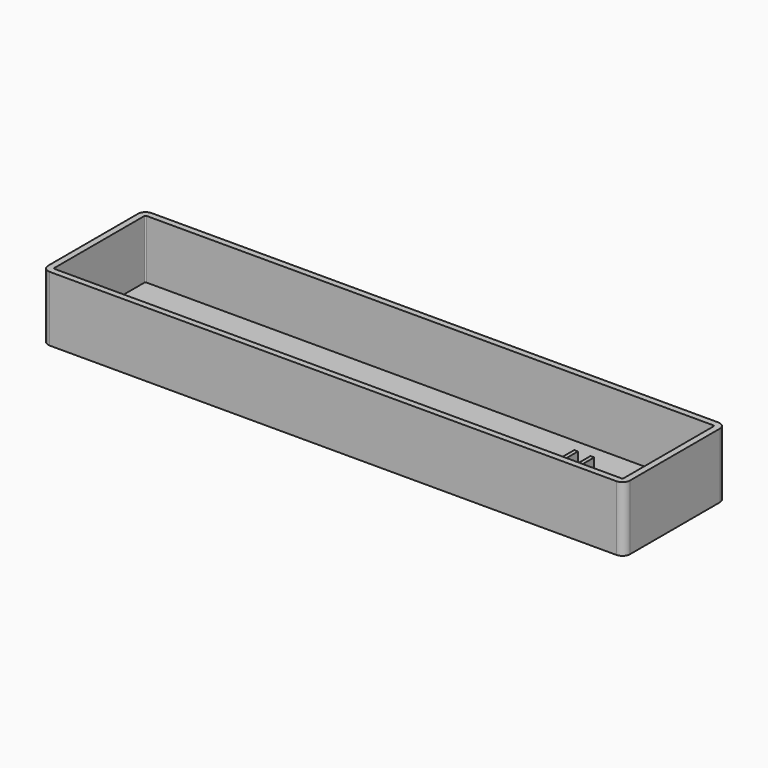
from build123d import *

# Parameters (mm, degrees)
F0_W     = 233
F0_H     = 51
F1_DEPTH = 26
F2_R     = 3
F3_T     = -2.5
F7_DEPTH = 6.5
F8_R     = 1
F9_DEPTH = 25


with BuildPart() as f1:
    # F0 (on Top) → F1 (new body)
    with BuildSketch(Plane.XY):
        Rectangle(F0_W, F0_H)
    extrude(amount=F1_DEPTH)

    # F2
    f2_edges = [f1.edges().sort_by_distance(p)[0] for p in [
        (-116.5, -25.5, 13),
        (116.5, -25.5, 13),
        (116.5, 25.5, 13),
        (-116.5, 25.5, 13),
    ]]
    fillet(f2_edges, radius=F2_R)

    # F3
    f3_openings = [f1.faces().sort_by_distance(p)[0] for p in [
        (0, 0, 26),
    ]]
    offset(amount=F3_T, openings=f3_openings)


with BuildPart() as f7:
    # F6 (on offset) → F7 (new body)
    with BuildSketch(Plane.XY.offset(12)):
        Polygon((87.5, -6), (87.5, -15.5), (82.5, -15.5), (82.5, -6), (81, -6), (81, -17), (89, -17), (89, -6), align=None)
    extrude(amount=F7_DEPTH)

    # F8 (on face) → F9 (cut)
    with BuildSketch(Plane.YZ.offset(89)):
        with Locations((-9, 15.25)):
            Circle(F8_R)
    extrude(amount=-F9_DEPTH, mode=Mode.SUBTRACT)


solid = Compound([f1.part, f7.part])
